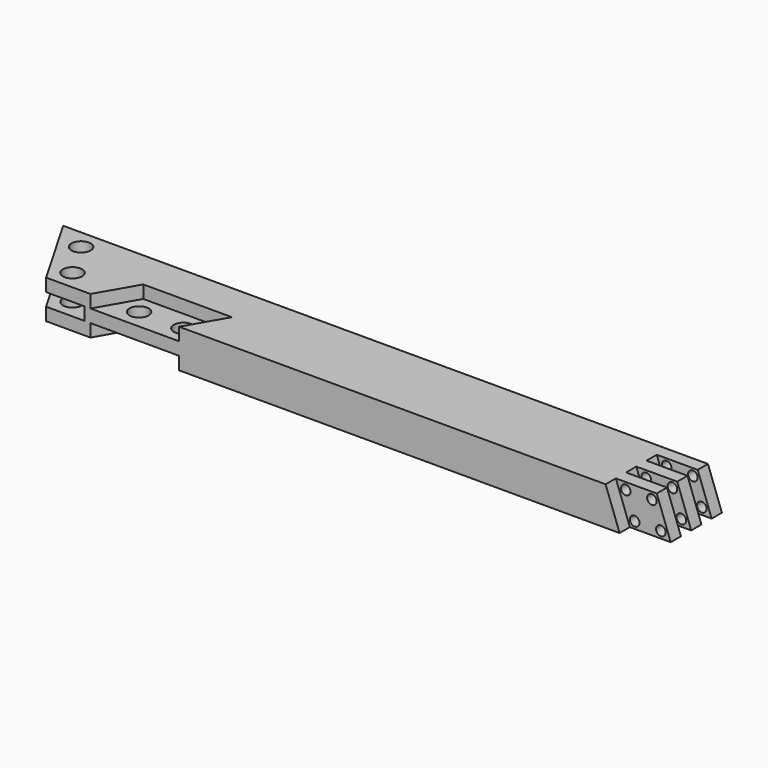
from build123d import *

# Parameters (mm, degrees)
F1_DEPTH  = 25.4
F3_DEPTH  = 8.4666666667
F5_DEPTH  = 8.4666666667
F6_W      = 25.4
F6_H      = 8.4666666667
F9_W      = 27.051
F9_H      = 8.4666666667
F13_R     = 6.35
F14_DEPTH = 16.9343333333
F12_R     = 3.175
F15_DEPTH = 42.3343333333
F16_R     = 6.35
F17_DEPTH = 25.401


with BuildPart() as f1:
    # F0 (on Top) → F1 (new body)
    with BuildSketch(Plane.XY):
        Polygon((-232.5293936748, 25.4), (-203.2, -25.4), (203.2, -25.4), (203.2, 25.4), align=None)
    extrude(amount=F1_DEPTH)

    # F2 (on face) → F3 (cut)
    with BuildSketch(Plane.XY.offset(25.4)):
        Polygon((-159.2059094878, 0), (-173.8706063252, -25.4), (-115.2118189755, -25.4), (-100.5471221381, 0), align=None)
    extrude(amount=-F3_DEPTH, mode=Mode.SUBTRACT)

    # F4 (on face) → F5 (cut)
    with BuildSketch(Plane(origin=(0, 0, 0), x_dir=(1, 0, 0), z_dir=(0, 0, -1))):
        Polygon((-100.5471221381, 0), (-115.2118189755, 25.4), (-173.8706063252, 25.4), (-159.2059094878, 0), align=None)
    extrude(amount=-F5_DEPTH, mode=Mode.SUBTRACT)

    # F7: sweep along a path in F7_path
    with BuildLine(Plane(origin=(-232.5293936748, 25.4, 25.4), x_dir=(-0.5, 0.8660254038, 0), z_dir=(-0.8660254038, -0.5, 0))) as f7_path:
        Line((0, 0), (-58.6587873497, 0))
    # F6 (on face) → F7 (sweep, cut)
    with BuildSketch(Plane(origin=(0, 25.4, 0), x_dir=(-1, 0, 0), z_dir=(0, 1, 0))):
        with Locations((219.8293936748, 12.7)):
            Rectangle(F6_W, F6_H)
    sweep(path=f7_path.line, mode=Mode.SUBTRACT)

    # F10: sweep along a path in F8
    with BuildLine(Plane.XZ.offset(25.4)) as f10_path:
        Line((193.9551560496, 25.4), (203.2, 0))
    # F9 (on face) → F10 (sweep, cut)
    with BuildSketch(Plane.XY.offset(25.4)):
        with Locations((180.4296560496, -21.1666666667)):
            Rectangle(F9_W, F9_H)
        with Locations((180.4296560496, -4.2333333333)):
            Rectangle(F9_W, F9_H)
        with Locations((180.4296560496, 12.7)):
            Rectangle(F9_W, F9_H)
        Polygon((203.2, 25.4), (193.9551560496, 25.4), (193.9551560496, 16.9333333333), (193.9551560496, 8.4666666667), (193.9551560496, 0), (193.9551560496, -8.4666666667), (193.9551560496, -16.9333333333), (193.9551560496, -25.4), (203.2, -25.4), align=None)
    sweep(path=f10_path.line, mode=Mode.SUBTRACT)

    # F13 (on face) → F14 (cut, through all)
    with BuildSketch(Plane.XY.offset(16.9333333333)):
        with Locations((-151.873561069, -12.7)):
            Circle(F13_R)
        with Locations((-122.5441673942, -12.7)):
            Circle(F13_R)
    extrude(amount=-F14_DEPTH, mode=Mode.SUBTRACT)

    # F12 (on face) → F15 (cut, through all)
    with BuildSketch(Plane.XZ.offset(16.9333333333)):
        with Locations((190.7538071849, 20.828)):
            Circle(F12_R)
        with Locations((196.6705073132, 4.572)):
            Circle(F12_R)
        with Locations((173.4336487365, 20.828)):
            Circle(F12_R)
        with Locations((179.3503488647, 4.572)):
            Circle(F12_R)
    extrude(amount=-F15_DEPTH, mode=Mode.SUBTRACT)

    # F16 (on face) → F17 (cut, through all)
    with BuildSketch(Plane(origin=(0, 0, 0), x_dir=(1, 0, 0), z_dir=(0, 0, -1))):
        with Locations((-195.8676515813, 12.7)):
            Circle(F16_R)
        with Locations((-210.5323484187, -12.7)):
            Circle(F16_R)
    extrude(amount=-F17_DEPTH, mode=Mode.SUBTRACT)


solid = f1.part
